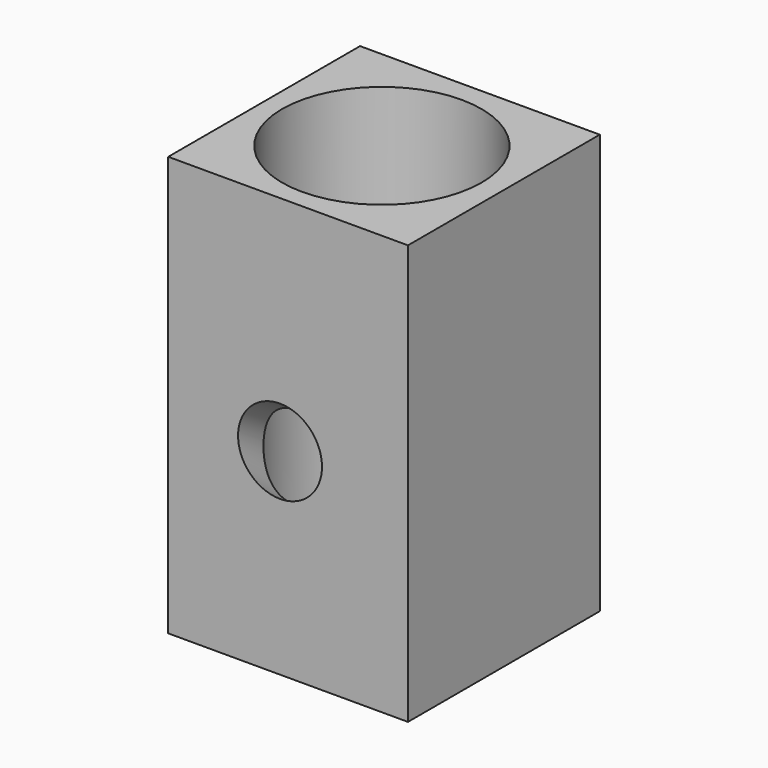
from build123d import *

# Parameters (mm, degrees)
F0_W     = 40
F0_H     = 40
F1_DEPTH = 70
F2_R     = 16.6382118991
F3_DEPTH = 80
F4_W     = 40
F4_H     = 40
F5_DEPTH = 8
F6_R     = 7


with BuildPart() as f1:
    # F0 (on Top) → F1 (new body)
    with BuildSketch(Plane.XY):
        with Locations((20, 20)):
            Rectangle(F0_W, F0_H)
    extrude(amount=F1_DEPTH)

    # F2 (on Top) → F3 (cut)
    with BuildSketch(Plane.XY):
        with Locations((19.8019631207, 19.8019631207)):
            Circle(F2_R)
    extrude(amount=F3_DEPTH, mode=Mode.SUBTRACT)

    # F4 (on Top) → F5 (join)
    with BuildSketch(Plane.XY):
        with Locations((20, 20)):
            Rectangle(F4_W, F4_H)
    extrude(amount=F5_DEPTH)

    # F8: sweep along a path in F7
    with BuildLine(Plane.YZ) as f8_path:
        Line((-5.8375704102, 26.8986206502), (5.3797238506, 19.1151890904))
    # F6 (on Front) → F8 (sweep, cut)
    with BuildSketch(Plane.XZ):
        with Locations((18.6525676399, 32.8138060868)):
            Circle(F6_R)
    sweep(path=f8_path.line, mode=Mode.SUBTRACT)


solid = f1.part
